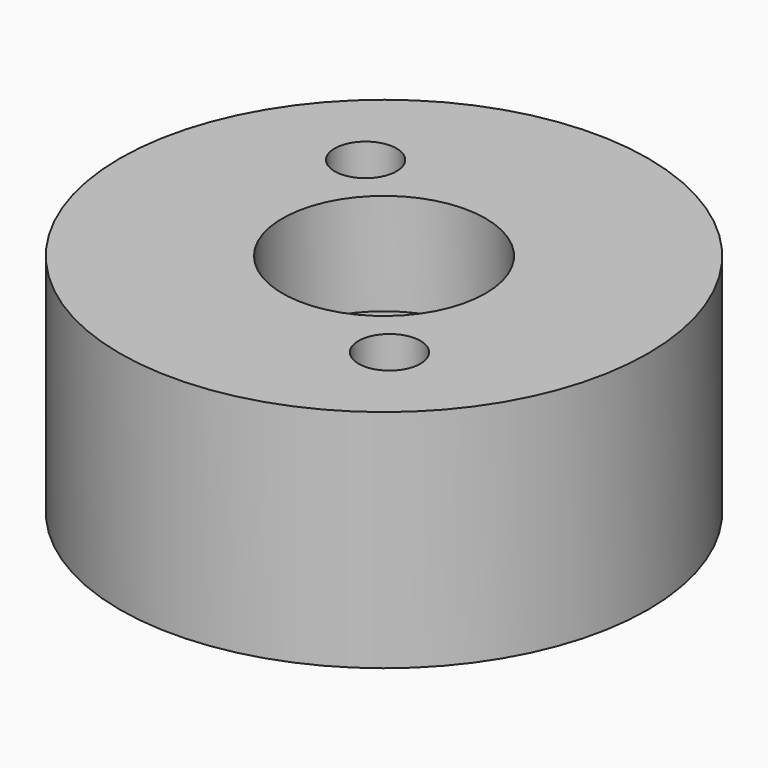
from build123d import *

# Parameters (mm, degrees)
F0_R     = 13
F0_R_2   = 1.525
F0_R_3   = 4.25
F1_DEPTH = 11.1
F2_R     = 5
F2_R_2   = 4.25
F3_DEPTH = 5


with BuildPart() as f1:
    # F0 (on Top) → F1 (new body)
    with BuildSketch(Plane.XY):
        Circle(F0_R)
        with Locations((5.176005, -6.132667)):
            Circle(F0_R_2, mode=Mode.SUBTRACT)
        with Locations((-5.545808, 5.8004)):
            Circle(F0_R_2, mode=Mode.SUBTRACT)
        Circle(F0_R_3, mode=Mode.SUBTRACT)
    extrude(amount=F1_DEPTH)

    # F2 (on face) → F3 (cut)
    with BuildSketch(Plane.XY.offset(11.1)):
        Circle(F2_R)
        Circle(F2_R_2, mode=Mode.SUBTRACT)
    extrude(amount=-F3_DEPTH, mode=Mode.SUBTRACT)


solid = f1.part
